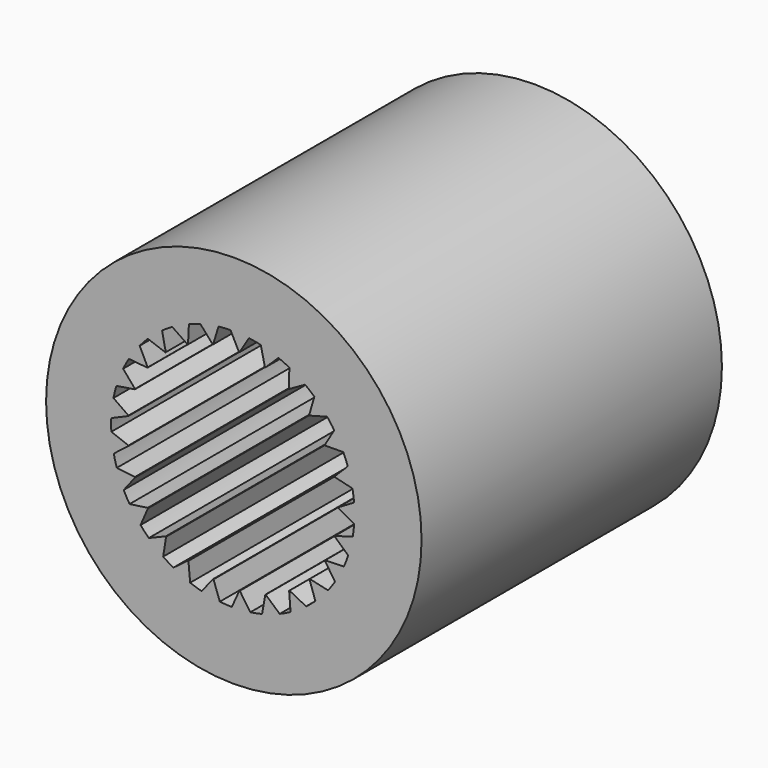
from build123d import *

# Parameters (mm, degrees)
F0_R     = 3.175
F1_DEPTH = 6.35


with BuildPart() as f1:
    # F0 (on Front) → F1 (new body)
    with BuildSketch(Plane.XZ):
        with Locations((0.01724, -0.018653)):
            Circle(F0_R)
        with BuildLine():
            ThreePointArc((1.778428, 0.007274), (1.778439, 0.00365), (1.778443, 2.5e-05))
            Line((1.778443, 2.5e-05), (2.05225, -0.145481))
            ThreePointArc((2.05225, -0.145481), (2.042521, -0.246727), (2.027738, -0.347359))
            Line((2.027738, -0.347359), (1.724364, -0.435232))
            ThreePointArc((1.724364, -0.435232), (1.723473, -0.438745), (1.722576, -0.442256))
            Line((1.722576, -0.442256), (1.951595, -0.651284))
            ThreePointArc((1.951595, -0.651284), (1.916993, -0.74693), (1.877648, -0.840723))
            Line((1.877648, -0.840723), (1.561952, -0.85039))
            ThreePointArc((1.561952, -0.85039), (1.560216, -0.853571), (1.558473, -0.856749))
            Line((1.558473, -0.856749), (1.728314, -1.116165))
            ThreePointArc((1.728314, -1.116165), (1.671013, -1.2002), (1.609579, -1.281263))
            Line((1.609579, -1.281263), (1.301397, -1.212115))
            ThreePointArc((1.301397, -1.212115), (1.298924, -1.214765), (1.296446, -1.217409))
            Line((1.296446, -1.217409), (1.396437, -1.510913))
            ThreePointArc((1.396437, -1.510913), (1.320038, -1.578058), (1.240374, -1.641295))
            Line((1.240374, -1.641295), (0.959071, -1.497679))
            ThreePointArc((0.959071, -1.497679), (0.956017, -1.49963), (0.952959, -1.501575))
            Line((0.952959, -1.501575), (0.976817, -1.810725))
            ThreePointArc((0.976817, -1.810725), (0.886119, -1.85676), (0.793232, -1.8982))
            Line((0.793232, -1.8982), (0.556482, -1.689137))
            ThreePointArc((0.556482, -1.689137), (0.553039, -1.690268), (0.549593, -1.691391))
            Line((0.549593, -1.691391), (0.495819, -1.996762))
            ThreePointArc((0.495819, -1.996762), (0.396523, -2.018795), (0.296248, -2.035833))
            Line((0.296248, -2.035833), (0.118928, -1.774462))
            ThreePointArc((0.118928, -1.774462), (0.115311, -1.7747), (0.111695, -1.774932))
            Line((0.111695, -1.774932), (-0.016332, -2.057335))
            ThreePointArc((-0.016332, -2.057335), (-0.117989, -2.053982), (-0.21935, -2.045547))
            Line((-0.21935, -2.045547), (-0.326099, -1.74829))
            ThreePointArc((-0.326099, -1.74829), (-0.329661, -1.747622), (-0.333222, -1.746946))
            Line((-0.333222, -1.746946), (-0.527457, -1.988639))
            ThreePointArc((-0.527457, -1.988639), (-0.625087, -1.96011), (-0.721166, -1.926732))
            Line((-0.721166, -1.926732), (-0.750636, -1.612266))
            ThreePointArc((-0.750636, -1.612266), (-0.75392, -1.610733), (-0.757201, -1.609194))
            Line((-0.757201, -1.609194), (-1.005441, -1.794989))
            ThreePointArc((-1.005441, -1.794989), (-1.092908, -1.743077), (-1.177668, -1.686854))
            Line((-1.177668, -1.686854), (-1.128008, -1.374938))
            ThreePointArc((-1.128008, -1.374938), (-1.130808, -1.372637), (-1.133602, -1.37033))
            Line((-1.133602, -1.37033), (-1.420248, -1.488553))
            ThreePointArc((-1.420248, -1.488553), (-1.492058, -1.41652), (-1.560173, -1.340984))
            Line((-1.560173, -1.340984), (-1.434503, -1.051218))
            ThreePointArc((-1.434503, -1.051218), (-1.436642, -1.048293), (-1.438775, -1.045363))
            Line((-1.438775, -1.045363), (-1.745817, -1.088586))
            ThreePointArc((-1.745817, -1.088586), (-1.797456, -1.000958), (-1.844646, -0.910855))
            Line((-1.844646, -0.910855), (-1.650863, -0.661446))
            ThreePointArc((-1.650863, -0.661446), (-1.652207, -0.65808), (-1.653545, -0.654712))
            Line((-1.653545, -0.654712), (-1.961689, -0.620219))
            ThreePointArc((-1.961689, -0.620219), (-1.989914, -0.522501), (-2.013214, -0.423494))
            Line((-2.013214, -0.423494), (-1.763493, -0.230112))
            ThreePointArc((-1.763493, -0.230112), (-1.763958, -0.226518), (-1.764416, -0.222923))
            Line((-1.764416, -0.222923), (-2.054301, -0.112881))
            ThreePointArc((-2.054301, -0.112881), (-2.057338, -0.011215), (-2.055284, 0.090477))
            Line((-2.055284, 0.090477), (-1.765316, 0.21568))
            ThreePointArc((-1.765316, 0.21568), (-1.764873, 0.219277), (-1.764422, 0.222873))
            Line((-1.764422, 0.222873), (-2.017834, 0.401549))
            ThreePointArc((-2.017834, 0.401549), (-1.995492, 0.500777), (-1.968213, 0.598762))
            Line((-1.968213, 0.598762), (-1.656218, 0.64792))
            ThreePointArc((-1.656218, 0.64792), (-1.654894, 0.651294), (-1.653563, 0.654665))
            Line((-1.653563, 0.654665), (-1.854579, 0.890748))
            ThreePointArc((-1.854579, 0.890748), (-1.808262, 0.981303), (-1.757472, 1.069426))
            Line((-1.757472, 1.069426), (-1.443054, 1.039449))
            ThreePointArc((-1.443054, 1.039449), (-1.440932, 1.042388), (-1.438805, 1.045322))
            Line((-1.438805, 1.045322), (-1.574794, 1.323979))
            ThreePointArc((-1.574794, 1.323979), (-1.507412, 1.40017), (-1.436302, 1.472893))
            Line((-1.436302, 1.472893), (-1.139217, 1.365666))
            ThreePointArc((-1.139217, 1.365666), (-1.136432, 1.367984), (-1.133641, 1.370297))
            Line((-1.133641, 1.370297), (-1.196058, 1.674019))
            ThreePointArc((-1.196058, 1.674019), (-1.111846, 1.731059), (-1.024884, 1.783813))
            Line((-1.024884, 1.783813), (-0.763799, 1.606072))
            ThreePointArc((-0.763799, 1.606072), (-0.760525, 1.607626), (-0.757247, 1.609172))
            Line((-0.757247, 1.609172), (-0.74217, 1.918874))
            ThreePointArc((-0.74217, 1.918874), (-0.646418, 1.953179), (-0.549069, 1.98265))
            Line((-0.549069, 1.98265), (-0.340389, 1.745564))
            ThreePointArc((-0.340389, 1.745564), (-0.336831, 1.746254), (-0.333272, 1.746937))
            Line((-0.333272, 1.746937), (-0.241649, 2.043159))
            ThreePointArc((-0.241649, 2.043159), (-0.140374, 2.052574), (-0.038754, 2.056909))
            Line((-0.038754, 2.056909), (0.104409, 1.775375))
            ThreePointArc((0.104409, 1.775375), (0.108027, 1.775159), (0.111644, 1.774935))
            Line((0.111644, 1.774935), (0.274056, 2.039066))
            ThreePointArc((0.274056, 2.039066), (0.374491, 2.022998), (0.473996, 2.001926))
            Line((0.473996, 2.001926), (0.542647, 1.693633))
            ThreePointArc((0.542647, 1.693633), (0.546097, 1.692524), (0.549545, 1.691407))
            Line((0.549545, 1.691407), (0.772541, 1.90685))
            ThreePointArc((0.772541, 1.90685), (0.865825, 1.86631), (0.956963, 1.821153))
            Line((0.956963, 1.821153), (0.946788, 1.505474))
            ThreePointArc((0.946788, 1.505474), (0.949854, 1.503541), (0.952916, 1.501602))
            Line((0.952916, 1.501602), (1.222484, 1.654819))
            ThreePointArc((1.222484, 1.654819), (1.302756, 1.592355), (1.379801, 1.525952))
            Line((1.379801, 1.525952), (1.291439, 1.22272))
            ThreePointArc((1.291439, 1.22272), (1.293928, 1.220086), (1.296411, 1.217446))
            Line((1.296411, 1.217446), (1.595614, 1.298811))
            ThreePointArc((1.595614, 1.298811), (1.65783, 1.218346), (1.71594, 1.134868))
            Line((1.71594, 1.134868), (1.554944, 0.863138))
            ThreePointArc((1.554944, 0.863138), (1.5567, 0.859968), (1.558449, 0.856793))
            Line((1.558449, 0.856793), (1.868486, 0.861193))
            ThreePointArc((1.868486, 0.861193), (1.908736, 0.767784), (1.944261, 0.672477))
            Line((1.944261, 0.672477), (1.720746, 0.449322))
            ThreePointArc((1.720746, 0.449322), (1.721658, 0.445815), (1.722563, 0.442305))
            Line((1.722563, 0.442305), (2.023954, 0.369463))
            ThreePointArc((2.023954, 0.369463), (2.03971, 0.268979), (2.050417, 0.167832))
            Line((2.050417, 0.167832), (1.778428, 0.007274))
        make_face(mode=Mode.SUBTRACT)
    extrude(amount=F1_DEPTH)


solid = f1.part
